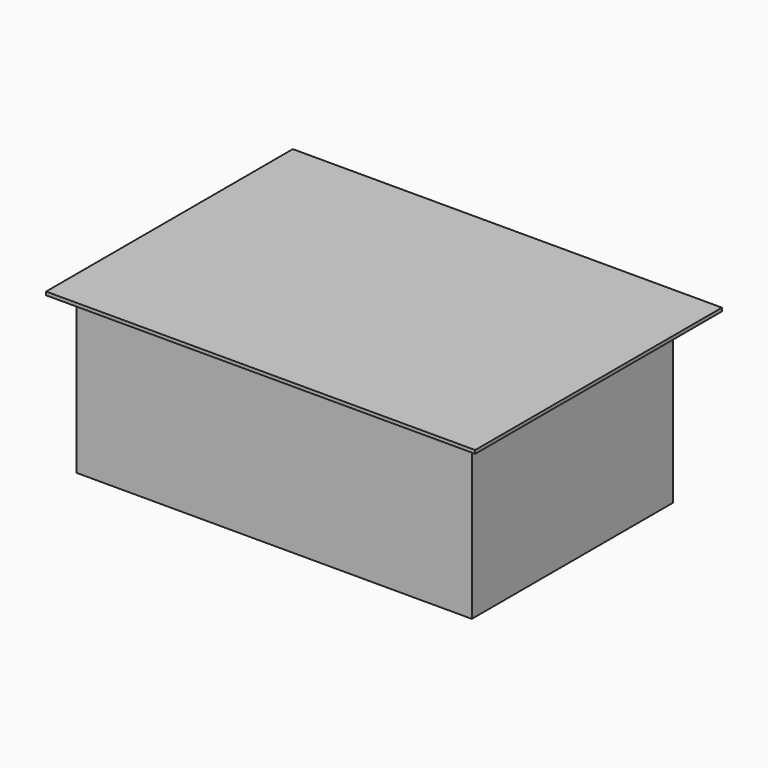
from build123d import *

# Parameters (mm, degrees)
F0_W     = 812.8
F0_H     = 584.2
F1_DEPTH = 304.8
F2_W     = 812.8
F2_H     = 298.45
F3_DEPTH = 31.75
F4_W     = 812.8
F4_H     = 298.45
F5_DEPTH = 76.2
F6_W     = 476.25
F6_H     = 298.45
F7_DEPTH = 31.75
F8_W     = 476.25
F8_H     = 298.45
F9_DEPTH = 31.75


with BuildPart() as f1:
    # F0 (on Top) → F1 (new body)
    with BuildSketch(Plane.XY):
        Rectangle(F0_W, F0_H)
    extrude(amount=F1_DEPTH)

    # F2 (on face) → F3 (cut)
    with BuildSketch(Plane.XZ.offset(292.1)):
        with Locations((0, 149.225)):
            Rectangle(F2_W, F2_H)
    extrude(amount=-F3_DEPTH, mode=Mode.SUBTRACT)

    # F4 (on face) → F5 (cut)
    with BuildSketch(Plane(origin=(0, 292.1, 0), x_dir=(-1, 0, 0), z_dir=(0, 1, 0))):
        with Locations((0, 149.225)):
            Rectangle(F4_W, F4_H)
    extrude(amount=-F5_DEPTH, mode=Mode.SUBTRACT)

    # F6 (on face) → F7 (cut)
    with BuildSketch(Plane.YZ.offset(406.4)):
        with Locations((-22.225, 149.225)):
            Rectangle(F6_W, F6_H)
    extrude(amount=-F7_DEPTH, mode=Mode.SUBTRACT)

    # F8 (on face) → F9 (cut)
    with BuildSketch(Plane(origin=(-406.4, 0, 0), x_dir=(0, -1, 0), z_dir=(-1, 0, 0))):
        with Locations((22.225, 149.225)):
            Rectangle(F8_W, F8_H)
    extrude(amount=-F9_DEPTH, mode=Mode.SUBTRACT)


solid = f1.part
